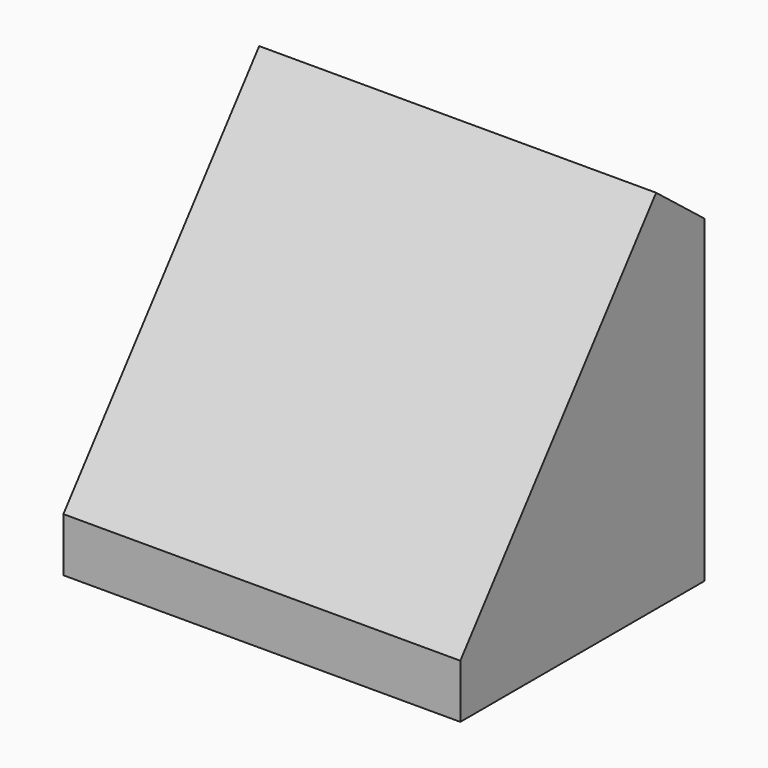
from build123d import *

# Parameters (mm, degrees)
F2_DEPTH = 330.2


with BuildPart() as f2:
    # F1 (on face) → F2 (new body)
    with BuildSketch(Plane.YZ):
        Polygon((76.577041, 152.4), (-127, -107.577746), (-127, -152.4), (127, -152.4), (127, 112.916017), align=None)
    extrude(amount=F2_DEPTH)


solid = f2.part
